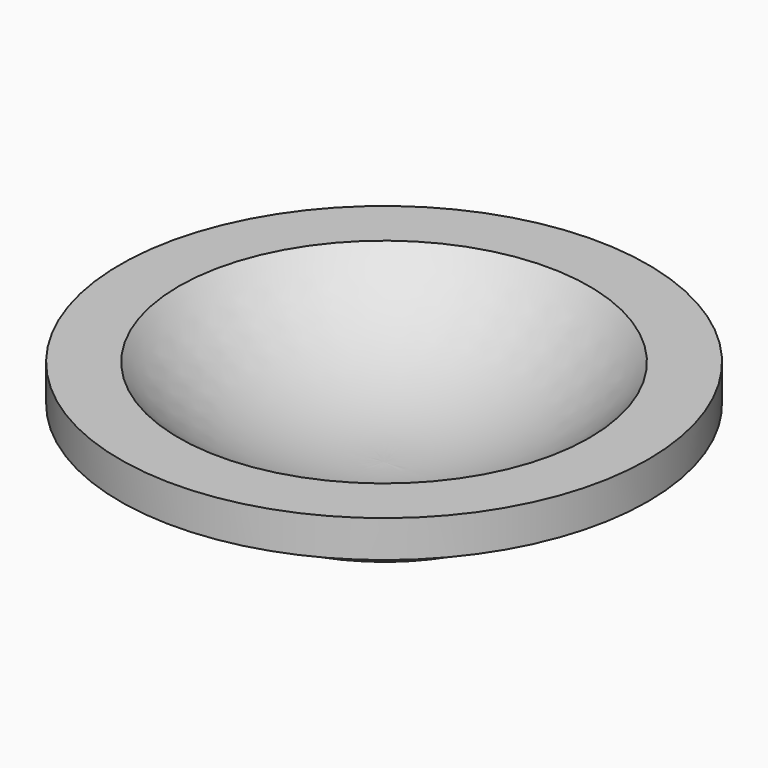
from build123d import *


with BuildPart() as f1:
    # F0 (on Front) → F1 (revolve)
    with BuildSketch(Plane.XZ):
        with BuildLine():
            ThreePointArc((304.8, -263.5732464684), (154.1612255834, -297.2078172853), (0, -304.8))
            Line((0, -304.8), (0, -421.1569249401))
            Line((0, -421.1569249401), (304.8, -421.1569249401))
            Line((304.8, -421.1569249401), (304.8, -263.5732464684))
        make_face()
        with BuildLine():
            ThreePointArc((711.2, 0), (525.9302233235, -159.4329904445), (304.8, -263.5732464684))
            Line((304.8, -263.5732464684), (304.8, -421.1569249401))
            ThreePointArc((304.8, -421.1569249401), (576.012858411, -308.585969078), (807.4484587912, -127.8480440378))
            Line((807.4484587912, -127.8480440378), (914.4, -127.8480440378))
            Line((914.4, -127.8480440378), (914.4, 0))
            Line((914.4, 0), (711.2, 0))
        make_face()
    revolve(axis=Axis((0, 0, -144.0323203688), (0, 0, -1)))


solid = f1.part
